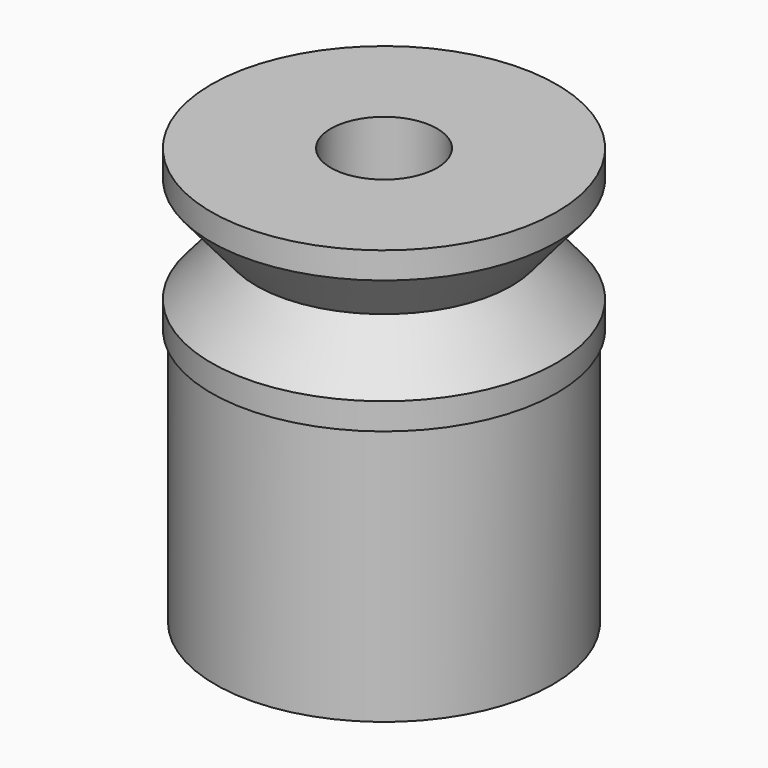
from build123d import *

# Parameters (mm, degrees)
F0_R     = 6.5
F0_R_2   = 2
F1_DEPTH = 6
F4_R     = 6.35
F4_R_2   = 2
F5_DEPTH = 9.7028


with BuildPart() as f1:
    # F0 (on Top) → F1 (new body)
    with BuildSketch(Plane.XY):
        Circle(F0_R)
        Circle(F0_R_2, mode=Mode.SUBTRACT)
    extrude(amount=F1_DEPTH)

    # F2 (on Front) → F3 (revolve, cut)
    with BuildSketch(Plane.XZ):
        Polygon((6.5, 1), (6.5, 5), (4.8, 3), align=None)
    revolve(axis=Axis((0, 0, 0), (0, 0, -1)), mode=Mode.SUBTRACT)


with BuildPart() as f5:
    # F4 (on Top) → F5 (new body)
    with BuildSketch(Plane.XY):
        Circle(F4_R)
        Circle(F4_R_2, mode=Mode.SUBTRACT)
    extrude(amount=-F5_DEPTH)


solid = Compound([f1.part, f5.part])
